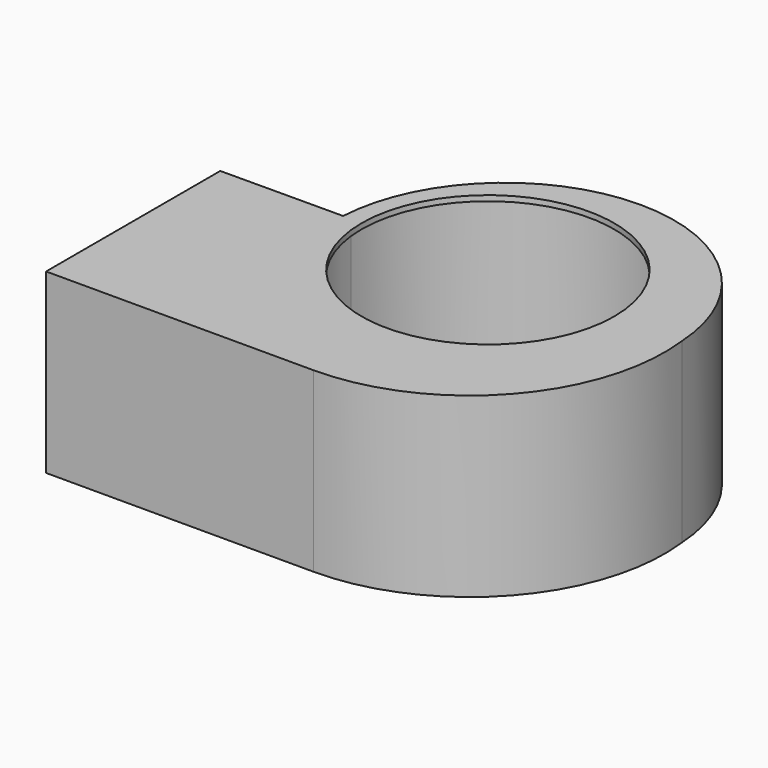
from build123d import *

# Parameters (mm, degrees)
F0_DEPTH = 101.6
F1_R     = 74.6125
F2_DEPTH = 3.175


with BuildPart() as f0:
    # F3 (on Top) → F0 (new body)
    with BuildSketch(Plane.XY):
        with BuildLine():
            ThreePointArc((-80.9752, 0), (14.28115, 89.974854), (109.5375, 0))
            ThreePointArc((109.5375, 0), (82.660593, -86.586053), (0, -123.825))
            Line((0, -123.825), (-158.089892, -123.825))
            Line((-158.089892, -123.825), (-158.089892, -128.5875))
            Line((-158.089892, -128.5875), (0, -128.5875))
            ThreePointArc((0, -128.5875), (86.176233, -89.79969), (114.283266, 0.42687))
            ThreePointArc((114.283266, 0.42687), (14.203268, 94.737324), (-85.729963, 0.271366))
            ThreePointArc((-85.729963, 0.271366), (-85.554208, -11.594011), (-83.681731, -23.312027))
            Line((-83.681731, -23.312027), (-79.044946, -22.225))
            ThreePointArc((-79.044946, -22.225), (-80.809569, -11.181937), (-80.9752, 0))
        make_face()
    extrude(amount=F0_DEPTH)

    # F1 (on face) → F2 (join)
    with BuildSketch(Plane.XY.offset(101.6)):
        with BuildLine():
            ThreePointArc((0, -128.5875), (86.176233, -89.79969), (114.283266, 0.42687))
            ThreePointArc((114.283266, 0.42687), (14.203268, 94.737324), (-85.729963, 0.271366))
            Line((-85.729963, 0.271366), (-158.089892, 0))
            Line((-158.089892, 0), (-158.089892, -128.5875))
            Line((-158.089892, -128.5875), (0, -128.5875))
        make_face()
        Circle(F1_R, mode=Mode.SUBTRACT)
    extrude(amount=F2_DEPTH)


solid = f0.part
